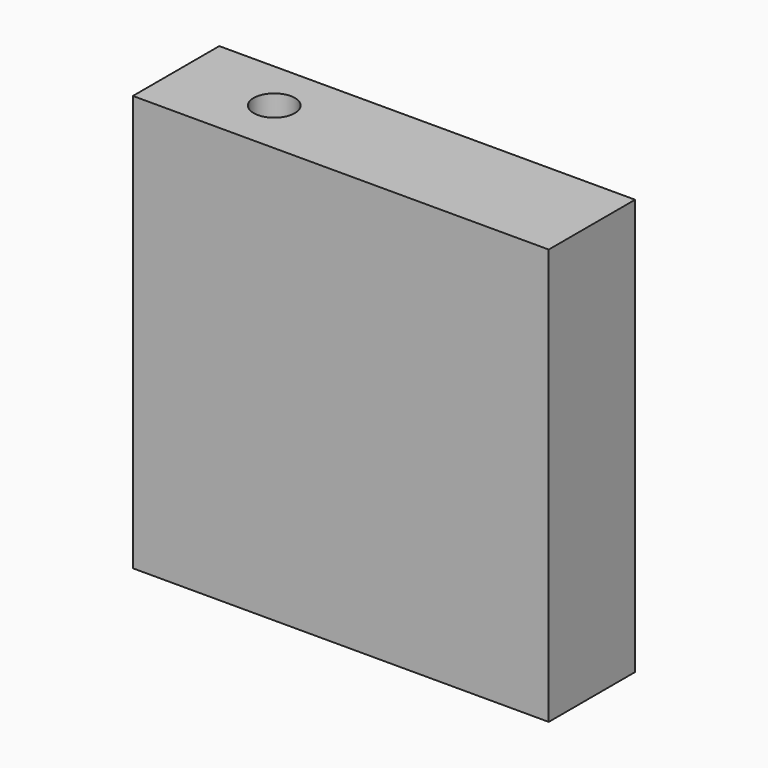
from build123d import *

# Parameters (mm, degrees)
F0_W     = 104
F0_H     = 104
F1_DEPTH = 27
F3_D     = 10.3


with BuildPart() as f1:
    # F0 (on Front) → F1 (new body)
    with BuildSketch(Plane.XZ):
        Rectangle(F0_W, F0_H)
    extrude(amount=F1_DEPTH)

    # F3 (through all)
    with Locations(Plane(origin=(0, 0, -52), x_dir=(1, 0, 0), z_dir=(0, 0, -1))):
        with Locations((-27.9020350426, 12.930193916)):
            Hole(F3_D / 2)


solid = f1.part
